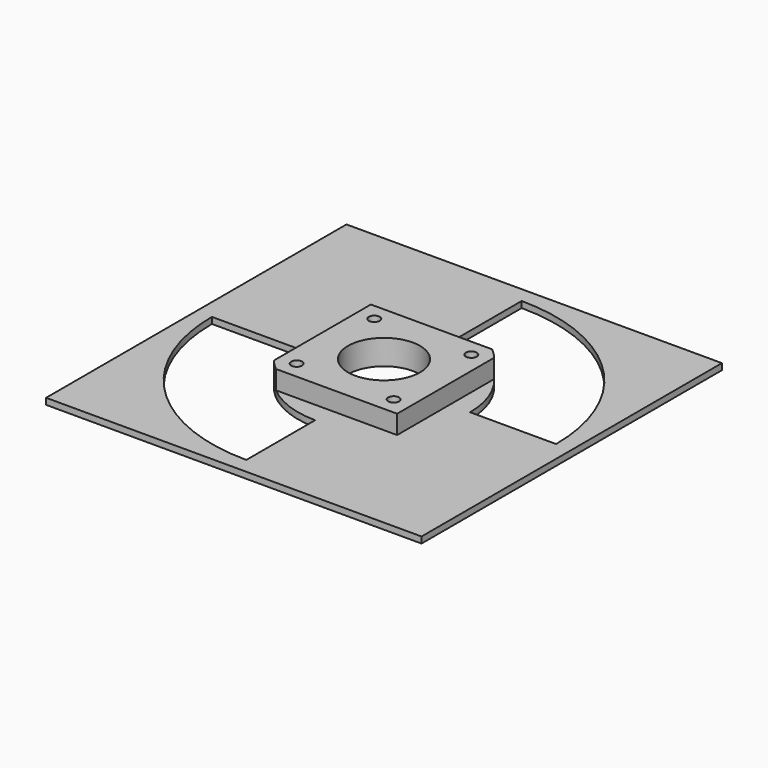
from build123d import *

# Parameters (mm, degrees)
F0_W      = 42
F0_H      = 42
F0_R      = 1.75
F0_R_2    = 11.5
F1_DEPTH  = 5
F0_W_2    = 120
F0_H_2    = 120
F2_DEPTH  = 2
F4_DEPTH  = 2
F5_DEPTH  = 3
F6_R      = 3.5
F6_R_2    = 1.75
F7_DEPTH  = 4
F8_R      = 3.5
F8_R_2    = 1.75
F9_DEPTH  = 4
F10_R     = 3.5
F10_R_2   = 1.75
F11_DEPTH = 4
F12_DEPTH = 3
F14_DEPTH = 2
F15_DEPTH = 8


with BuildPart() as f1:
    # F0 (on Top) → F1 (new body)
    with BuildSketch(Plane.XY):
        Rectangle(F0_W, F0_H)
        with Locations((-15.5, -15.5)):
            Circle(F0_R, mode=Mode.SUBTRACT)
        with Locations((15.5, -15.5)):
            Circle(F0_R, mode=Mode.SUBTRACT)
        with Locations((-15.5, 15.5)):
            Circle(F0_R, mode=Mode.SUBTRACT)
        Circle(F0_R_2, mode=Mode.SUBTRACT)
        with Locations((15.5, 15.5)):
            Circle(F0_R, mode=Mode.SUBTRACT)
    extrude(amount=F1_DEPTH)

    # F0 (on Top) → F2 (join)
    with BuildSketch(Plane.XY):
        Rectangle(F0_W_2, F0_H_2)
        Rectangle(F0_W, F0_H, mode=Mode.SUBTRACT)
    extrude(amount=F2_DEPTH)

    # F3 (on face) → F4 (cut)
    with BuildSketch(Plane(origin=(0, 0, 0), x_dir=(1, 0, 0), z_dir=(0, 0, -1))):
        with BuildLine():
            Line((0, 27.5), (0, 55))
            ThreePointArc((0, 55), (-38.8908729653, 38.8908729653), (-55, 0))
            Line((-55, 0), (-27.5, 0))
            ThreePointArc((-27.5, 0), (-19.4454364826, 19.4454364826), (0, 27.5))
        make_face()
    extrude(amount=-F4_DEPTH, mode=Mode.SUBTRACT)

    # F5 (cut): a face of the model
    f5_faces = [f1.faces().sort_by_distance(p)[0] for p in [
        (-19.9487472991, -19.9487472991, 2),
    ]]
    extrude(f5_faces, amount=-F5_DEPTH, mode=Mode.SUBTRACT)

    # F6 (on face) → F7 (cut)
    with BuildSketch(Plane(origin=(0, 0, 0), x_dir=(1, 0, 0), z_dir=(0, 0, -1))):
        with Locations((-15.5, 15.5)):
            Circle(F6_R)
        with Locations((-15.5, 15.5)):
            Circle(F6_R_2, mode=Mode.SUBTRACT)
    extrude(amount=-F7_DEPTH, mode=Mode.SUBTRACT)

    # F8 (on face) → F9 (cut)
    with BuildSketch(Plane(origin=(0, 0, 0), x_dir=(1, 0, 0), z_dir=(0, 0, -1))):
        with Locations((15.5, 15.5)):
            Circle(F8_R)
        with Locations((15.5, 15.5)):
            Circle(F8_R_2, mode=Mode.SUBTRACT)
    extrude(amount=-F9_DEPTH, mode=Mode.SUBTRACT)

    # F10 (on face) → F11 (cut)
    with BuildSketch(Plane(origin=(0, 0, 0), x_dir=(1, 0, 0), z_dir=(0, 0, -1))):
        with Locations((-15.5, -15.5)):
            Circle(F10_R)
        with Locations((-15.5, -15.5)):
            Circle(F10_R_2, mode=Mode.SUBTRACT)
        with Locations((15.5, -15.5)):
            Circle(F10_R)
        with Locations((15.5, -15.5)):
            Circle(F10_R_2, mode=Mode.SUBTRACT)
    extrude(amount=-F11_DEPTH, mode=Mode.SUBTRACT)

    # F12 (add): a face of the model
    f12_faces = [f1.faces().sort_by_distance(p)[0] for p in [
        (1.6223595477, -20.4060303038, 5),
    ]]
    extrude(f12_faces, amount=F12_DEPTH)

    # F13 (on face) → F14 (cut)
    with BuildSketch(Plane(origin=(0, 0, 0), x_dir=(1, 0, 0), z_dir=(0, 0, -1))):
        with BuildLine():
            ThreePointArc((0, -55), (38.8908729653, -38.8908729653), (55, 0))
            Line((55, 0), (27.5, 0))
            ThreePointArc((27.5, 0), (19.4454364826, -19.4454364826), (0, -27.5))
            Line((0, -27.5), (0, -55))
        make_face()
    extrude(amount=-F14_DEPTH, mode=Mode.SUBTRACT)

    # F15 (cut): a face of the model
    f15_faces = [f1.faces().sort_by_distance(p)[0] for p in [
        (19.9487472991, 19.9487472991, 2),
    ]]
    extrude(f15_faces, amount=-F15_DEPTH, mode=Mode.SUBTRACT)


solid = f1.part
